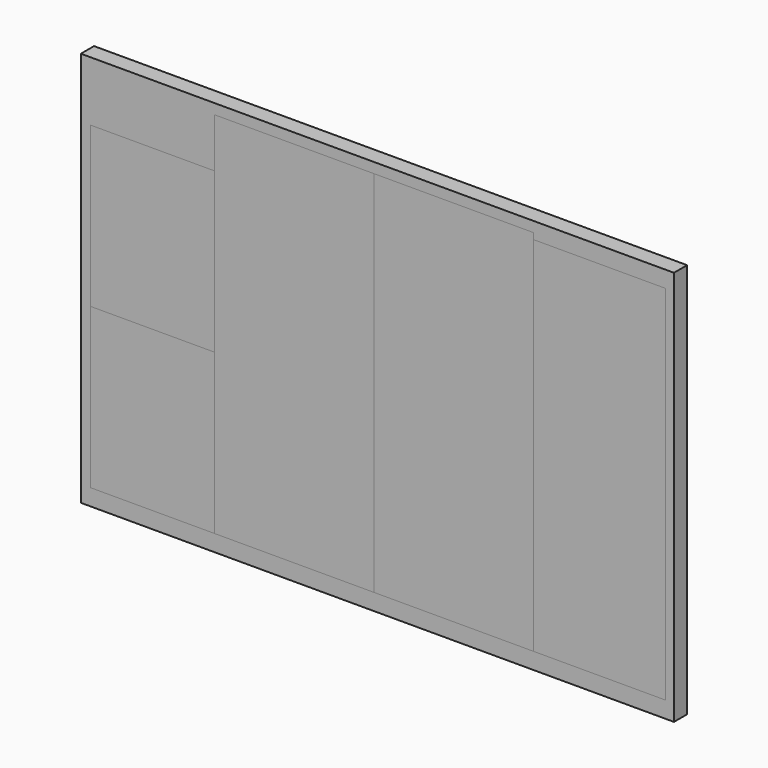
from build123d import *

# Parameters (mm, degrees)
F0_W     = 36
F0_H     = 24
F1_DEPTH = 1
F2_DEPTH = 1
F0_W_2   = 7.5
F0_H_2   = 9.6875
F3_DEPTH = 1
F4_DEPTH = 1
F5_DEPTH = 1
F0_W_3   = 8
F0_H_3   = 22
F6_DEPTH = 1


with BuildPart() as f1:
    # F0 (on Front) → F1 (new body)
    with BuildSketch(Plane.XZ):
        with Locations((18, 12)):
            Rectangle(F0_W, F0_H)
        Polygon((0.6, 1), (0.6, 10.6875), (0.6, 20.375), (8.1, 20.375), (8.1, 23.375), (17.7875, 23.375), (27.475, 23.375), (27.475, 23), (35.475, 23), (35.475, 1), (27.475, 1), (17.7875, 1), (8.1, 1), align=None, mode=Mode.SUBTRACT)
    extrude(amount=F1_DEPTH)


with BuildPart() as f2:
    # F0 (on Front) → F2 (new body)
    with BuildSketch(Plane.XZ):
        Polygon((8.1, 20.375), (8.1, 10.6875), (8.1, 1), (17.7875, 1), (17.7875, 23.375), (8.1, 23.375), align=None)
    extrude(amount=F2_DEPTH)


with BuildPart() as f3:
    # F0 (on Front) → F3 (new body)
    with BuildSketch(Plane.XZ):
        with Locations((4.35, 15.53125)):
            Rectangle(F0_W_2, F0_H_2)
    extrude(amount=F3_DEPTH)


with BuildPart() as f4:
    # F0 (on Front) → F4 (new body)
    with BuildSketch(Plane.XZ):
        with Locations((4.35, 5.84375)):
            Rectangle(F0_W_2, F0_H_2)
    extrude(amount=F4_DEPTH)


with BuildPart() as f5:
    # F0 (on Front) → F5 (new body)
    with BuildSketch(Plane.XZ):
        Polygon((17.7875, 23.375), (17.7875, 1), (27.475, 1), (27.475, 23), (27.475, 23.375), align=None)
    extrude(amount=F5_DEPTH)


with BuildPart() as f6:
    # F0 (on Front) → F6 (new body)
    with BuildSketch(Plane.XZ):
        with Locations((31.475, 12)):
            Rectangle(F0_W_3, F0_H_3)
    extrude(amount=F6_DEPTH)


solid = Compound([f1.part, f2.part, f3.part, f4.part, f5.part, f6.part])
